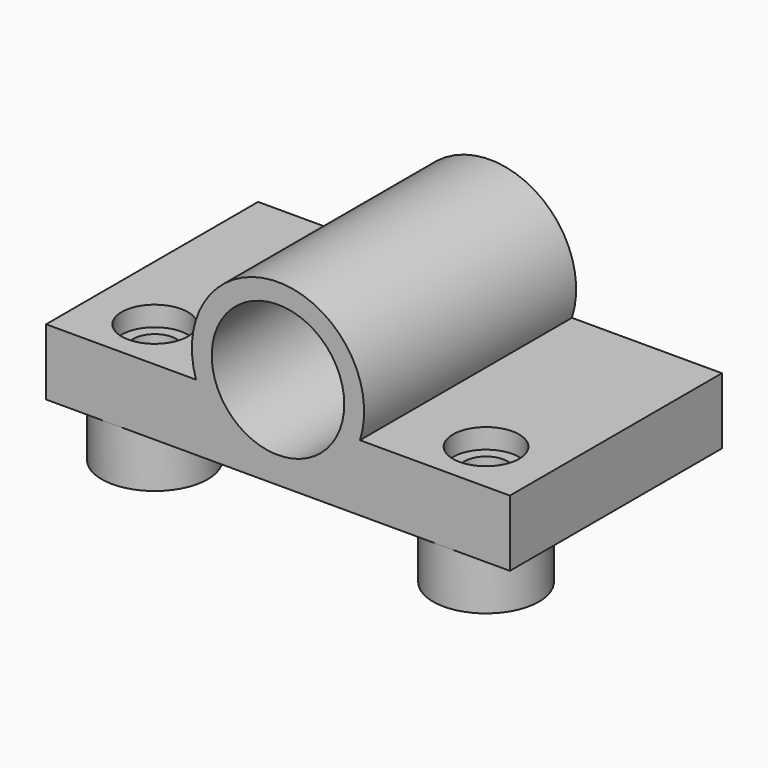
from build123d import *

# Parameters (mm, degrees)
SKETCH002_AS_DRAWN_R                 = 13
SKETCH002_AS_DRAWN_R_2               = 10
EXTRUDE002_DEPTH                     = 40
EXTRUDE002_ONTO_SKETCH002_ROLL_ANGLE = 90
SKETCH003_AS_DRAWN_R                 = 13
EXTRUDE003_DEPTH                     = 40
EXTRUDE003_ONTO_SKETCH003_ROLL_ANGLE = 90
SKETCH_W                             = 70
SKETCH_H                             = 40
SKETCH_R                             = 5
EXTRUDE_DEPTH                        = 10
SKETCH001_R                          = 8
SKETCH001_R_2                        = 3.25
EXTRUDE001_DEPTH                     = 15


with BuildPart() as extrude002:
    # Sketch002 as drawn → Extrude002 (new)
    with BuildSketch(Plane.XY):
        Circle(SKETCH002_AS_DRAWN_R)
        Circle(SKETCH002_AS_DRAWN_R_2, mode=Mode.SUBTRACT)
    extrude(amount=-EXTRUDE002_DEPTH)


with BuildPart() as extrude002_1:
    # Extrude002 onto Sketch002 roll: moved
    add(extrude002.part.rotate(Axis((0, 0, 0), (1, 0, 0)), EXTRUDE002_ONTO_SKETCH002_ROLL_ANGLE))


with BuildPart() as extrude002_2:
    # Extrude002 onto Sketch002 placement: moved
    add(extrude002_1.part)


with BuildPart() as extrude002_3:
    # Extrude002 placement: moved
    add(extrude002_2.part.moved(Location((0, -20, 14))))


with BuildPart() as extrude003:
    # Sketch003 as drawn → Extrude003 (new)
    with BuildSketch(Plane.XY):
        Circle(SKETCH003_AS_DRAWN_R)
    extrude(amount=-EXTRUDE003_DEPTH)


with BuildPart() as extrude003_1:
    # Extrude003 onto Sketch003 roll: moved
    add(extrude003.part.rotate(Axis((0, 0, 0), (1, 0, 0)), EXTRUDE003_ONTO_SKETCH003_ROLL_ANGLE))


with BuildPart() as extrude003_2:
    # Extrude003 onto Sketch003 placement: moved
    add(extrude003_1.part)


with BuildPart() as extrude003_3:
    # Extrude003 placement: moved
    add(extrude003_2.part.moved(Location((0, -20, 14))))


with BuildPart() as cut:
    # Sketch → Extrude (new body)
    with BuildSketch(Plane.XY):
        Rectangle(SKETCH_W, SKETCH_H)
        with Locations((-25, -12)):
            Circle(SKETCH_R, mode=Mode.SUBTRACT)
        with Locations((25, -12)):
            Circle(SKETCH_R, mode=Mode.SUBTRACT)
    extrude(amount=EXTRUDE_DEPTH)

    # Cut: cut Extrude003
    add(extrude003_3.part, mode=Mode.SUBTRACT)


with BuildPart() as fusion:
    # Sketch001 → Extrude001 (new body)
    with BuildSketch(Plane.XY):
        with Locations((-25, -12)):
            Circle(SKETCH001_R)
        with Locations((-25, -12)):
            Circle(SKETCH001_R_2, mode=Mode.SUBTRACT)
        with Locations((25, -12)):
            Circle(SKETCH001_R)
        with Locations((25, -12)):
            Circle(SKETCH001_R_2, mode=Mode.SUBTRACT)
    extrude(amount=EXTRUDE001_DEPTH)


with BuildPart() as fusion_1:
    # Extrude001 placement: moved
    add(fusion.part.moved(Location((0, 0, -8))))

    # Fusion: union Extrude002, Cut
    add(extrude002_3.part)
    add(cut.part)


solid = fusion_1.part
